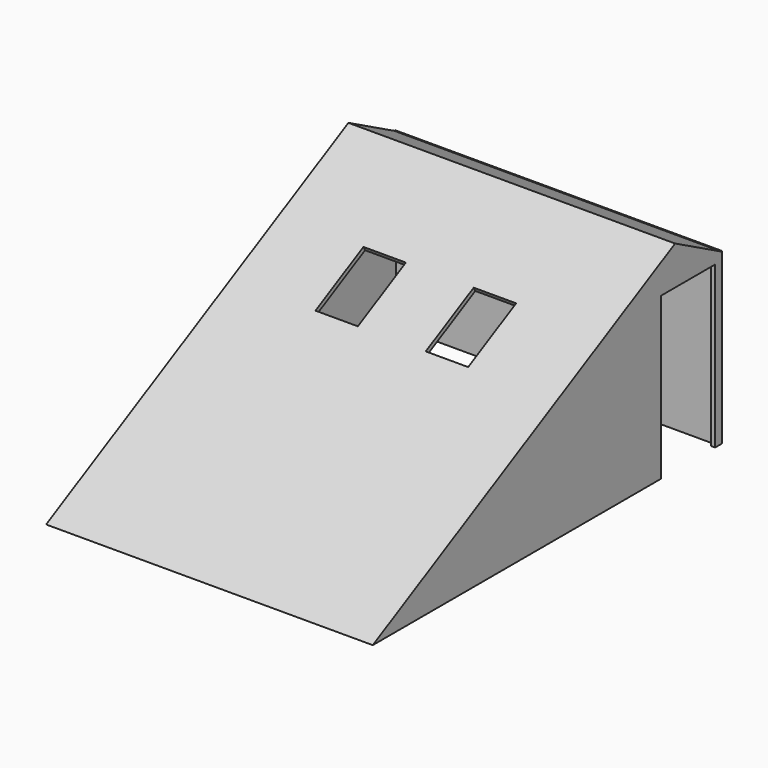
from build123d import *

# Parameters (mm, degrees)
F0_W      = 3851
F0_H      = 3255
F1_DEPTH  = 2500
F3_DEPTH  = 3851
F4_T      = -50
F5_W      = 800
F5_H      = 1900
F6_DEPTH  = 50
F7_W      = 500
F7_H      = 800
F8_DEPTH  = 50
F10_DEPTH = 3851


with BuildPart() as f1:
    # F0 (on Top) → F1 (new body)
    with BuildSketch(Plane.XY):
        with Locations((1925.5, 1627.5)):
            Rectangle(F0_W, F0_H)
    extrude(amount=F1_DEPTH)

    # F2 (on face) → F3 (cut, through all)
    with BuildSketch(Plane.YZ.offset(3851)):
        Polygon((0, 2500), (0, 1000), (1890, 2000), (3255, 2000), (3255, 2500), align=None)
    extrude(amount=-F3_DEPTH, mode=Mode.SUBTRACT)

    # F4
    f4_openings = [f1.faces().sort_by_distance(p)[0] for p in [
        (1925.5, 1627.5, 0),
    ]]
    offset(amount=F4_T, openings=f4_openings)

    # F5 (on face) → F6 (cut, through all)
    with BuildSketch(Plane.YZ.offset(3851)):
        with Locations((2755, 950)):
            Rectangle(F5_W, F5_H)
    extrude(amount=-F6_DEPTH, mode=Mode.SUBTRACT)

    # F7 (on face) → F8 (cut, through all)
    with BuildSketch(Plane(origin=(0, -413.3767852847, 781.282124188), x_dir=(1, 0, 0), z_dir=(0, -0.4676728299, 0.8839016485))):
        with Locations((1250, 1805.9197753983)):
            Rectangle(F7_W, F7_H)
        with Locations((2550, 1805.9197753983)):
            Rectangle(F7_W, F7_H)
    extrude(amount=-F8_DEPTH, mode=Mode.SUBTRACT)

    # F9 (on face) → F10 (join, through all)
    with BuildSketch(Plane(origin=(0, 0, 0), x_dir=(0, -1, 0), z_dir=(-1, 0, 0))):
        Polygon((-1890, 2000), (-2564.9951462485, 2357.1402890204), (-3240, 2000), align=None)
        Polygon((0, 1000), (0, 0), (1890, 0), align=None)
    extrude(amount=-F10_DEPTH)


solid = f1.part
